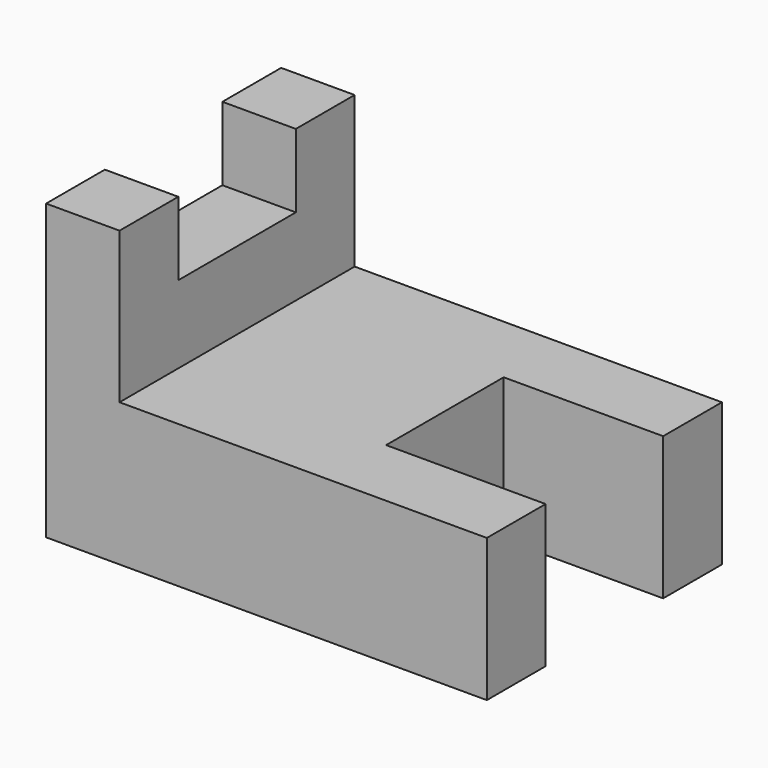
from build123d import *

# Parameters (mm, degrees)
F3_DEPTH = 50.8
F1_W     = 27.572012
F1_H     = 25.4
F4_DEPTH = 25.4
F2_W     = 25.4
F2_H     = 12.7
F5_DEPTH = 12.7


with BuildPart() as f3:
    # F0 (on Front) → F3 (new body)
    with BuildSketch(Plane.XZ):
        Polygon((0, 50.8), (0, 0), (76.2, 0), (76.2, 24.685946), (12.7, 24.685946), (12.7, 50.8), align=None)
    extrude(amount=-F3_DEPTH)

    # F1 (on Top) → F4 (cut)
    with BuildSketch(Plane.XY):
        with Locations((62.413994, 25.4)):
            Rectangle(F1_W, F1_H)
    extrude(amount=F4_DEPTH, mode=Mode.SUBTRACT)

    # F2 (on Right) → F5 (cut)
    with BuildSketch(Plane.YZ):
        with Locations((25.4, 44.45)):
            Rectangle(F2_W, F2_H)
    extrude(amount=F5_DEPTH, mode=Mode.SUBTRACT)


solid = f3.part
